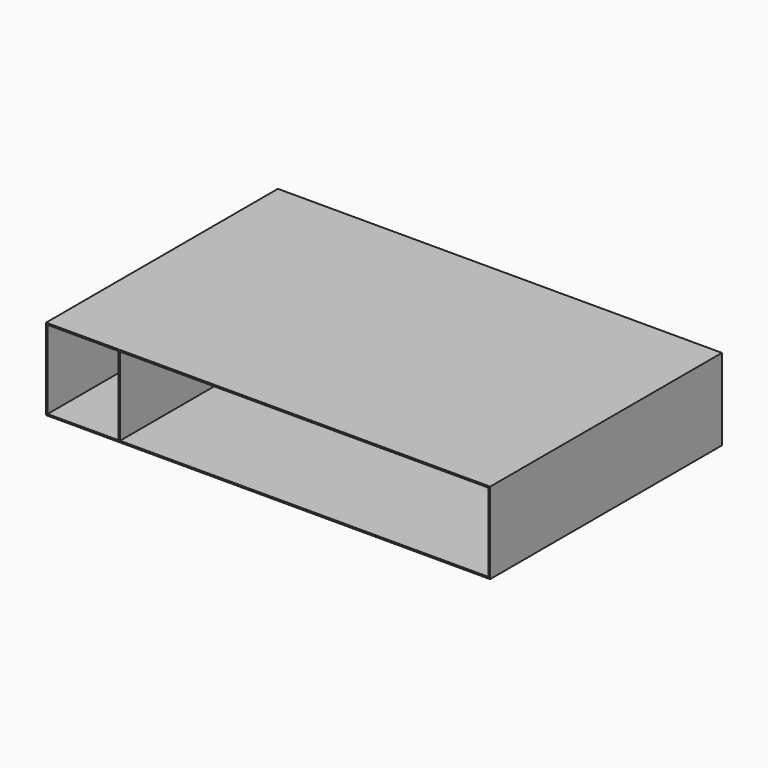
from build123d import *

# Parameters (mm, degrees)
F0_W     = 1868.62524
F0_H     = 342.9
F0_W_2   = 298.45
F0_H_2   = 330.2
F0_W_3   = 1551.12524
F1_DEPTH = 1219.2


with BuildPart() as f1:
    # F0 (on Front) → F1 (new body)
    with BuildSketch(Plane.XZ):
        with Locations((0, 165.1)):
            Rectangle(F0_W, F0_H)
        with Locations((-778.73762, 165.1)):
            Rectangle(F0_W_2, F0_H_2, mode=Mode.SUBTRACT)
        with Locations((152.4, 165.1)):
            Rectangle(F0_W_3, F0_H_2, mode=Mode.SUBTRACT)
    extrude(amount=F1_DEPTH)


solid = f1.part
